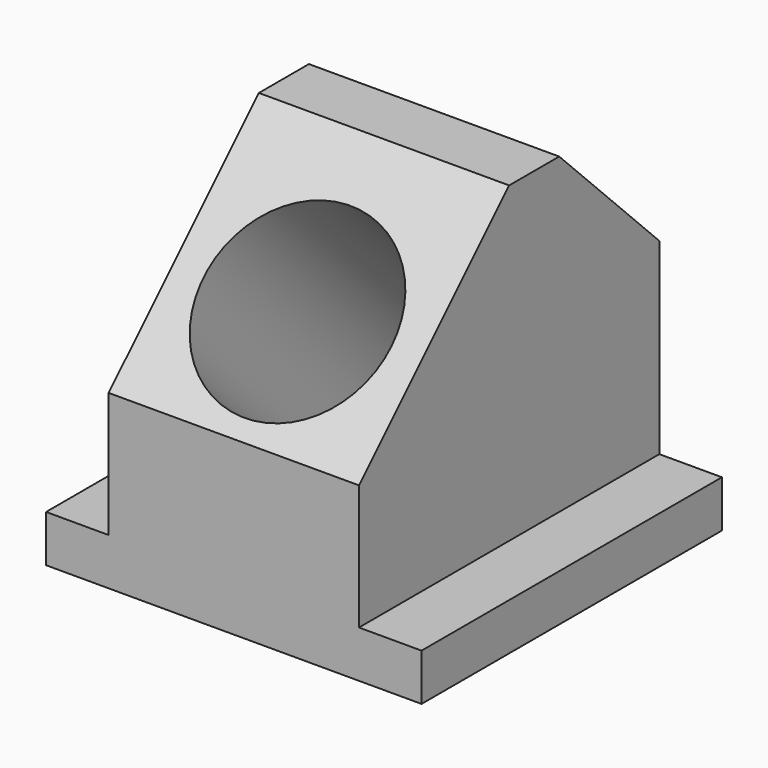
from build123d import *

# Parameters (mm, degrees)
F0_W     = 76.2
F0_H     = 9.525
F1_DEPTH = 38.1
F2_W     = 50.8
F2_H     = 76.2
F3_DEPTH = 63.5
F4_SIZE2 = 38.1
F4_SIZE  = 38.1
F5_R     = 19.05
F6_DEPTH = 190.246
F7_SIZE  = 25.4


with BuildPart() as f1:
    # F0 (on Front) → F1 (new body, symmetric)
    with BuildSketch(Plane.XZ):
        Rectangle(F0_W, F0_H)
    extrude(amount=F1_DEPTH, both=True)

    # F2 (on face) → F3 (join)
    with BuildSketch(Plane.XY.offset(4.7625)):
        Rectangle(F2_W, F2_H)
    extrude(amount=F3_DEPTH)

    # F4
    f4_edges = [f1.edges().sort_by_distance(p)[0] for p in [
        (0, -38.1, 68.2625),
    ]]
    chamfer(f4_edges, length=F4_SIZE, length2=F4_SIZE2)

    # F5 (on face) → F6 (cut)
    with BuildSketch(Plane(origin=(0, -34.13125, 34.13125), x_dir=(1, 0, 0), z_dir=(0, -0.707107, 0.707107))):
        with Locations((0, 17.24734)):
            Circle(F5_R)
    extrude(amount=-F6_DEPTH, mode=Mode.SUBTRACT)

    # F7
    f7_edges = [f1.edges().sort_by_distance(p)[0] for p in [
        (0, 38.1, 68.2625),
    ]]
    chamfer(f7_edges, length=F7_SIZE)


solid = f1.part
